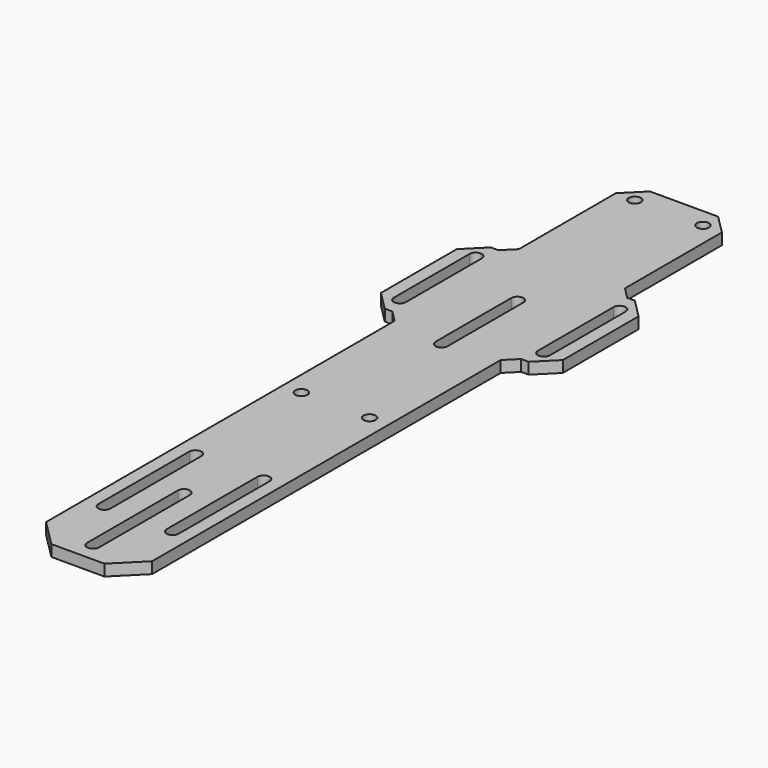
from build123d import *

# Parameters (mm, degrees)
F0_W     = 28
F0_H     = 40
F0_R     = 1.6
F0_W_2   = 10
F0_H_2   = 35
F1_DEPTH = 3
F2_SIZE  = 5
F3_SIZE  = 3
F4_SIZE  = 7


with BuildPart() as f1:
    # F0 (on Top) → F1 (new body)
    with BuildSketch(Plane.XY):
        with Locations((0, 80)):
            Rectangle(F0_W, F0_H)
        with Locations((-9, 95)):
            Circle(F0_R, mode=Mode.SUBTRACT)
        with Locations((9, 95)):
            Circle(F0_R, mode=Mode.SUBTRACT)
        with Locations((19, 42.5)):
            Rectangle(F0_W_2, F0_H_2)
        with BuildLine():
            ThreePointArc((17.4, 55), (19, 56.6), (20.6, 55))
            Line((20.6, 55), (20.6, 30))
            ThreePointArc((20.6, 30), (19, 28.4), (17.4, 30))
            Line((17.4, 30), (17.4, 55))
        make_face(mode=Mode.SUBTRACT)
        with BuildLine():
            Line((14, 25), (14, 60))
            Line((14, 60), (-14, 60))
            Line((-14, 60), (-14, 25))
            Line((-14, 25), (-1.6, 25))
            Line((-1.6, 25), (-1.6, 45))
            ThreePointArc((-1.6, 45), (0, 46.6), (1.6, 45))
            Line((1.6, 45), (1.6, 25))
            Line((1.6, 25), (14, 25))
        make_face()
        with Locations((-19, 42.5)):
            Rectangle(F0_W_2, F0_H_2)
        with BuildLine():
            ThreePointArc((-20.6, 55), (-19, 56.6), (-17.4, 55))
            Line((-17.4, 55), (-17.4, 30))
            ThreePointArc((-17.4, 30), (-19, 28.4), (-20.6, 30))
            Line((-20.6, 30), (-20.6, 55))
        make_face(mode=Mode.SUBTRACT)
        with BuildLine():
            Line((14, -100), (14, 25))
            Line((14, 25), (1.6, 25))
            Line((1.6, 25), (1.6, 20))
            ThreePointArc((1.6, 20), (0, 18.4), (-1.6, 20))
            Line((-1.6, 20), (-1.6, 25))
            Line((-1.6, 25), (-14, 25))
            Line((-14, 25), (-14, -100))
            Line((-14, -100), (14, -100))
        make_face()
        with BuildLine():
            ThreePointArc((-10.6, -50), (-9, -48.4), (-7.4, -50))
            Line((-7.4, -50), (-7.4, -80))
            ThreePointArc((-7.4, -80), (-9, -81.6), (-10.6, -80))
            Line((-10.6, -80), (-10.6, -50))
        make_face(mode=Mode.SUBTRACT)
        with Locations((-9, -15)):
            Circle(F0_R, mode=Mode.SUBTRACT)
        with BuildLine():
            Line((1.6, -65), (1.6, -95))
            ThreePointArc((1.6, -95), (0, -96.6), (-1.6, -95))
            Line((-1.6, -95), (-1.6, -65))
            ThreePointArc((-1.6, -65), (0, -63.4), (1.6, -65))
        make_face(mode=Mode.SUBTRACT)
        with BuildLine():
            Line((10.6, -50), (10.6, -80))
            ThreePointArc((10.6, -80), (9, -81.6), (7.4, -80))
            Line((7.4, -80), (7.4, -50))
            ThreePointArc((7.4, -50), (9, -48.4), (10.6, -50))
        make_face(mode=Mode.SUBTRACT)
        with Locations((9, -15)):
            Circle(F0_R, mode=Mode.SUBTRACT)
        with BuildLine():
            Line((14, -100), (14, 25))
            Line((14, 25), (1.6, 25))
            Line((1.6, 25), (1.6, 20))
            ThreePointArc((1.6, 20), (0, 18.4), (-1.6, 20))
            Line((-1.6, 20), (-1.6, 25))
            Line((-1.6, 25), (-14, 25))
            Line((-14, 25), (-14, -100))
            Line((-14, -100), (14, -100))
        make_face()
        with BuildLine():
            ThreePointArc((-10.6, -50), (-9, -48.4), (-7.4, -50))
            Line((-7.4, -50), (-7.4, -80))
            ThreePointArc((-7.4, -80), (-9, -81.6), (-10.6, -80))
            Line((-10.6, -80), (-10.6, -50))
        make_face(mode=Mode.SUBTRACT)
        with Locations((-9, -15)):
            Circle(F0_R, mode=Mode.SUBTRACT)
        with BuildLine():
            Line((1.6, -65), (1.6, -95))
            ThreePointArc((1.6, -95), (0, -96.6), (-1.6, -95))
            Line((-1.6, -95), (-1.6, -65))
            ThreePointArc((-1.6, -65), (0, -63.4), (1.6, -65))
        make_face(mode=Mode.SUBTRACT)
        with BuildLine():
            Line((10.6, -50), (10.6, -80))
            ThreePointArc((10.6, -80), (9, -81.6), (7.4, -80))
            Line((7.4, -80), (7.4, -50))
            ThreePointArc((7.4, -50), (9, -48.4), (10.6, -50))
        make_face(mode=Mode.SUBTRACT)
        with Locations((9, -15)):
            Circle(F0_R, mode=Mode.SUBTRACT)
    extrude(amount=F1_DEPTH)

    # F2
    f2_edges = [f1.edges().sort_by_distance(p)[0] for p in [
        (-14, 100, 1.5),
        (14, 100, 1.5),
        (-24, 60, 1.5),
        (24, 60, 1.5),
        (-24, 25, 1.5),
        (24, 25, 1.5),
    ]]
    chamfer(f2_edges, length=F2_SIZE)

    # F3
    f3_edges = [f1.edges().sort_by_distance(p)[0] for p in [
        (14, 25, 1.5),
        (-14, 25, 1.5),
        (-14, 60, 1.5),
        (14, 60, 1.5),
    ]]
    chamfer(f3_edges, length=F3_SIZE)

    # F4
    f4_edges = [f1.edges().sort_by_distance(p)[0] for p in [
        (14, -100, 1.5),
        (-14, -100, 1.5),
    ]]
    chamfer(f4_edges, length=F4_SIZE)


solid = f1.part
